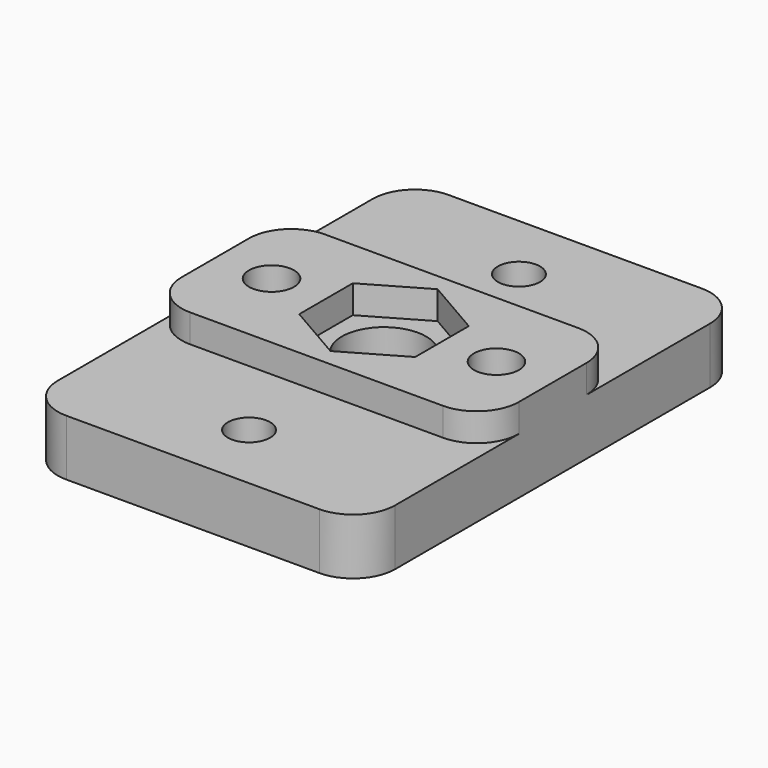
from build123d import *

# Parameters (mm, degrees)
SKETCH_W          = 24
SKETCH_H          = 34
SKETCH_R          = 1.5
SKETCH_R_2        = 3
PAD_DEPTH         = 4
SKETCH001_W       = 24
SKETCH001_H       = 12
PAD001_DEPTH      = 2
SKETCH002_R       = 1.6
POCKET_DEPTH      = 4.001
POCKET_DEPTH_BACK = -2.001
FILLET_R          = 3


with BuildPart() as part:
    # Sketch → Pad (new body)
    with BuildSketch(Plane.XY):
        Rectangle(SKETCH_W, SKETCH_H)
        with Locations((0, 12)):
            Circle(SKETCH_R, mode=Mode.SUBTRACT)
        with Locations((0, -12)):
            Circle(SKETCH_R, mode=Mode.SUBTRACT)
        Circle(SKETCH_R_2, mode=Mode.SUBTRACT)
    extrude(amount=-PAD_DEPTH)

    # Sketch001 → Pad001 (join)
    with BuildSketch(Plane.XY):
        Rectangle(SKETCH001_W, SKETCH001_H)
        Polygon((4.125, -2.38157), (4.125, 2.38157), (0, 4.76314), (-4.125, 2.38157), (-4.125, -2.38157), (0, -4.76314), align=None, mode=Mode.SUBTRACT)
    extrude(amount=PAD001_DEPTH)

    # Sketch002 → Pocket (cut, two sides)
    with BuildSketch(Plane.XY) as pocket_sk:
        with Locations((-8, 0)):
            Circle(SKETCH002_R)
        with Locations((8, 0)):
            Circle(SKETCH002_R)
    extrude(amount=-POCKET_DEPTH, mode=Mode.SUBTRACT)
    extrude(pocket_sk.sketch, amount=-POCKET_DEPTH_BACK, mode=Mode.SUBTRACT)

    # Fillet
    fillet_edges = [part.edges().sort_by_distance(p)[0] for p in [
        (-12, -17, -2),
        (12, -17, -2),
        (12, -6, 1),
        (-12, -6, 1),
        (-12, 6, 1),
        (12, 6, 1),
        (12, 17, -2),
        (-12, 17, -2),
    ]]
    fillet(fillet_edges, radius=FILLET_R)


solid = part.part
